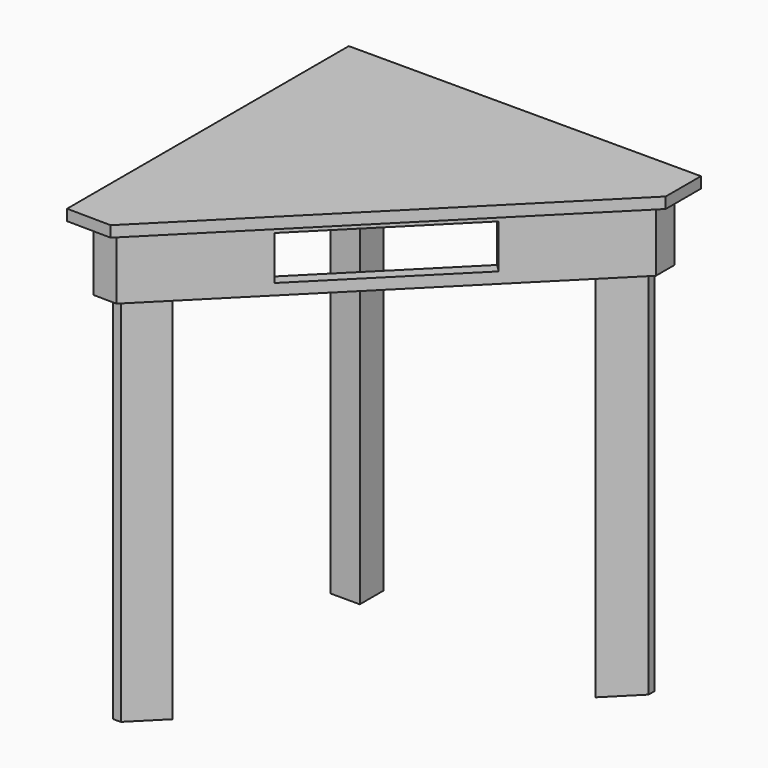
from build123d import *

# Parameters (mm, degrees)
F1_DEPTH  = 19.05
F4_DEPTH  = 114.3
F5_W      = 304.8
F5_H      = 76.2
F6_DEPTH  = 205.103861168
F8_DEPTH  = 762
F10_DEPTH = 762
F11_W     = 50.8
F11_H     = 50.8
F12_DEPTH = 762


with BuildPart() as f1:
    # F0 (on Top) → F1 (new body)
    with BuildSketch(Plane.XY):
        Polygon((609.6, 0), (0, 0), (0, -609.6), (76.1936366749, -610.5847488248), (609.6, -76.2), align=None)
    extrude(amount=F1_DEPTH)

    # F3 (on face) → F4 (join)
    with BuildSketch(Plane(origin=(0, 0, 0), x_dir=(1, 0, 0), z_dir=(0, 0, -1))):
        Polygon((584.2, 65.6926060926), (65.7952397089, 585.0482356184), (25.4, 584.5261557366), (25.4, 25.4), (584.2, 25.4), align=None)
        Polygon((44.45, 44.45), (44.45, 565.720772539), (57.9964419843, 565.8958507136), (565.15, 57.8120606621), (565.15, 44.45), align=None, mode=Mode.SUBTRACT)
    extrude(amount=F4_DEPTH)

    # F5 (on face) → F6 (cut)
    with BuildSketch(Plane(origin=(325.4815326726, -324.8856204339, 0), x_dir=(0.7064585835, 0.7077543852, 0), z_dir=(0.7077543852, -0.7064585835, 0))):
        with Locations((0, -57.15)):
            Rectangle(F5_W, F5_H)
    extrude(amount=-F6_DEPTH, mode=Mode.SUBTRACT)

    # F7 (on face) → F8 (join)
    with BuildSketch(Plane(origin=(0, 0, 0), x_dir=(1, 0, 0), z_dir=(0, 0, -1))):
        Polygon((57.9964419843, 565.8958507136), (44.45, 565.8958507136), (44.45, 515.0958507136), (107.8850816302, 515.9157042449), align=None)
    extrude(amount=F8_DEPTH)

    # F9 (on face) → F10 (join)
    with BuildSketch(Plane(origin=(0, 0, 0), x_dir=(1, 0, 0), z_dir=(0, 0, -1))):
        Polygon((565.15, 44.45), (565.15, 57.8120606621), (514.35, 108.7052391219), (514.35, 44.45), align=None)
    extrude(amount=F10_DEPTH)

    # F11 (on face) → F12 (join)
    with BuildSketch(Plane(origin=(0, 0, 0), x_dir=(1, 0, 0), z_dir=(0, 0, -1))):
        with Locations((69.85, 69.85)):
            Rectangle(F11_W, F11_H)
    extrude(amount=F12_DEPTH)


solid = f1.part
